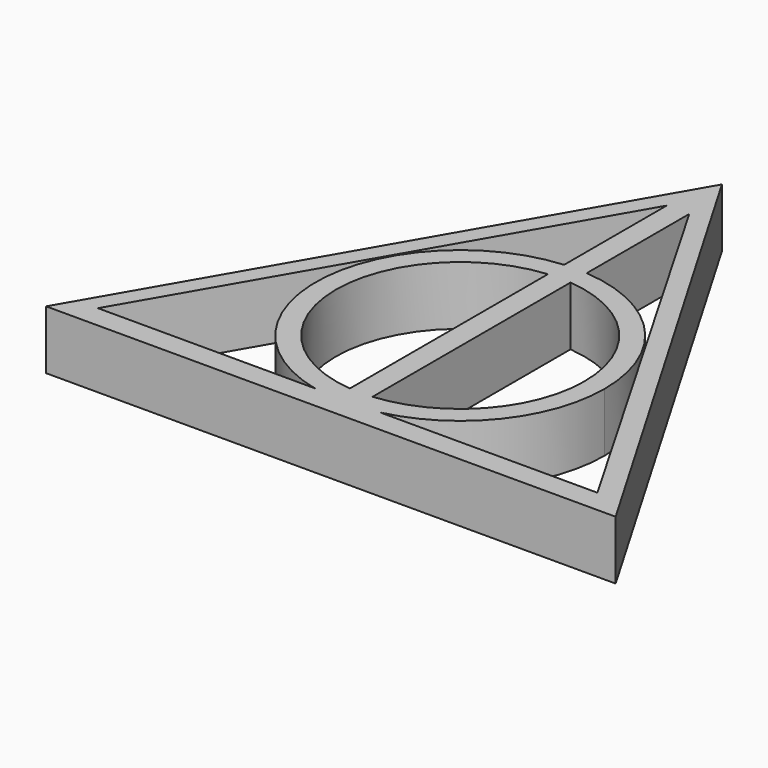
from build123d import *

# Parameters (mm, degrees)
F1_DEPTH = 25.4


with BuildPart() as f1:
    # F0 (on Top) → F1 (new body)
    with BuildSketch(Plane.XY):
        Polygon((123.5442494553, -9.8546108769), (0, 201.9159130813), (-122.2657690137, -9.8546108769), align=None)
        with BuildLine():
            Line((-4.8778088885, 178.2273002568), (0, 186.6759130813))
            Line((0, 186.6759130813), (4.8778088885, 178.2273002568))
            Line((4.8778088885, 178.2273002568), (107.7773886687, 0))
            Line((107.7773886687, 0), (14.1198557448, 0))
            ThreePointArc((14.1198557448, 0), (9.5256601261, -0.8879425347), (4.8778088885, -1.4288253328))
            ThreePointArc((4.8778088885, -1.4288253328), (-4.6759216184, -1.4443391195), (-14.1198557448, 0))
            Line((-14.1198557448, 0), (-107.7773886687, 0))
            Line((-107.7773886687, 0), (-4.8778088885, 178.2273002568))
        make_face(mode=Mode.SUBTRACT)
        with BuildLine():
            Line((-4.8778088885, 114.1285764535), (-4.8778088885, 122.8822744628))
            ThreePointArc((-4.8778088885, 122.8822744628), (-62.1710636846, 65.4026461834), (-14.1198557448, 0))
            Line((-14.1198557448, 0), (-4.8778088885, 0))
            Line((-4.8778088885, 0), (-4.8778088885, 7.3248726765))
            ThreePointArc((-4.8778088885, 7.3248726765), (-53.6241625079, 60.726724565), (-4.8778088885, 114.1285764535))
        make_face()
        with BuildLine():
            ThreePointArc((62.346655104, 60.726724565), (45.7778356363, 103.052782344), (4.8778088885, 122.8822744628))
            Line((4.8778088885, 122.8822744628), (4.8778088885, 114.1285764535))
            ThreePointArc((4.8778088885, 114.1285764535), (39.6050452669, 96.8790577412), (53.6241625079, 60.726724565))
            ThreePointArc((53.6241625079, 60.726724565), (39.6050452669, 24.5743913889), (4.8778088885, 7.3248726765))
            Line((4.8778088885, 7.3248726765), (4.8778088885, 0))
            Line((4.8778088885, 0), (14.1198557448, 0))
            ThreePointArc((14.1198557448, 0), (48.8233098985, 21.9531534991), (62.346655104, 60.726724565))
        make_face()
        with BuildLine():
            ThreePointArc((4.8778088885, 114.1285764535), (0, 114.3508870729), (-4.8778088885, 114.1285764535))
            Line((-4.8778088885, 114.1285764535), (-4.8778088885, 7.3248726765))
            ThreePointArc((-4.8778088885, 7.3248726765), (0, 7.1025620571), (4.8778088885, 7.3248726765))
            Line((4.8778088885, 7.3248726765), (4.8778088885, 114.1285764535))
        make_face()
        with BuildLine():
            Line((4.8778088885, 178.2273002568), (0, 186.6759130813))
            Line((0, 186.6759130813), (-4.8778088885, 178.2273002568))
            Line((-4.8778088885, 178.2273002568), (-4.8778088885, 122.8822744628))
            ThreePointArc((-4.8778088885, 122.8822744628), (0, 123.073379669), (4.8778088885, 122.8822744628))
            Line((4.8778088885, 122.8822744628), (4.8778088885, 178.2273002568))
        make_face()
        with BuildLine():
            ThreePointArc((4.8778088885, 122.8822744628), (0, 123.073379669), (-4.8778088885, 122.8822744628))
            Line((-4.8778088885, 122.8822744628), (-4.8778088885, 114.1285764535))
            ThreePointArc((-4.8778088885, 114.1285764535), (0, 114.3508870729), (4.8778088885, 114.1285764535))
            Line((4.8778088885, 114.1285764535), (4.8778088885, 122.8822744628))
        make_face()
        with BuildLine():
            Line((-4.8778088885, 7.3248726765), (-4.8778088885, 0))
            Line((-4.8778088885, 0), (4.8778088885, 0))
            Line((4.8778088885, 0), (4.8778088885, 7.3248726765))
            ThreePointArc((4.8778088885, 7.3248726765), (0, 7.1025620571), (-4.8778088885, 7.3248726765))
        make_face()
        with BuildLine():
            Line((-4.8778088885, 0), (-14.1198557448, 0))
            ThreePointArc((-14.1198557448, 0), (-4.6759216184, -1.4443391195), (4.8778088885, -1.4288253328))
            Line((4.8778088885, -1.4288253328), (4.8778088885, 0))
            Line((4.8778088885, 0), (-4.8778088885, 0))
        make_face()
        with BuildLine():
            ThreePointArc((4.8778088885, -1.4288253328), (9.5256601261, -0.8879425347), (14.1198557448, 0))
            Line((14.1198557448, 0), (4.8778088885, 0))
            Line((4.8778088885, 0), (4.8778088885, -1.4288253328))
        make_face()
    extrude(amount=F1_DEPTH)


solid = f1.part
